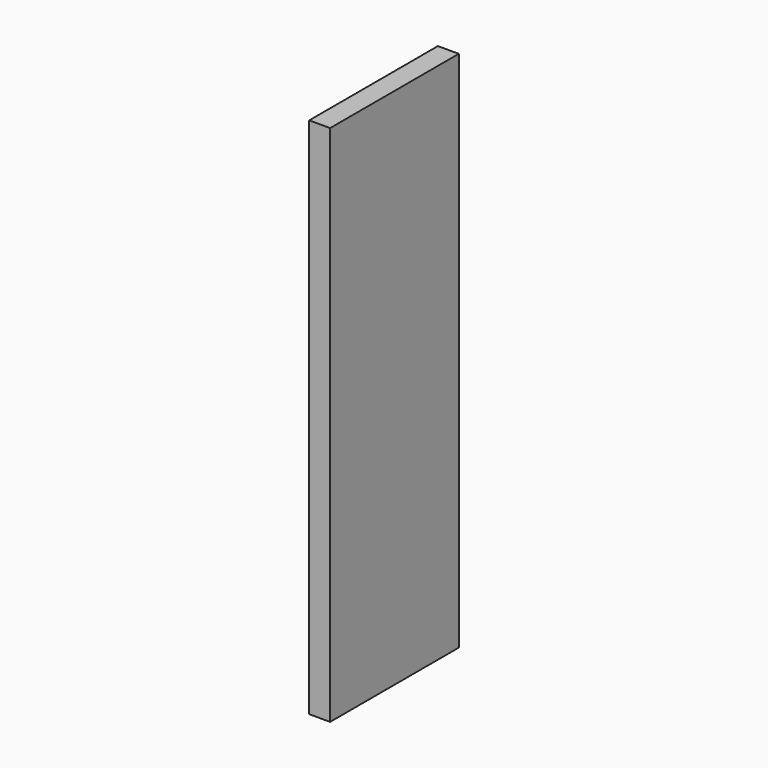
from build123d import *

# Parameters (mm, degrees)
BOX_W     = 26
BOX_H     = 200
BOX_DEPTH = 650


with BuildPart() as part:
    # Box → Box (new body)
    with BuildSketch(Plane.XY):
        with Locations((13, 100)):
            Rectangle(BOX_W, BOX_H)
    extrude(amount=BOX_DEPTH)


solid = part.part
